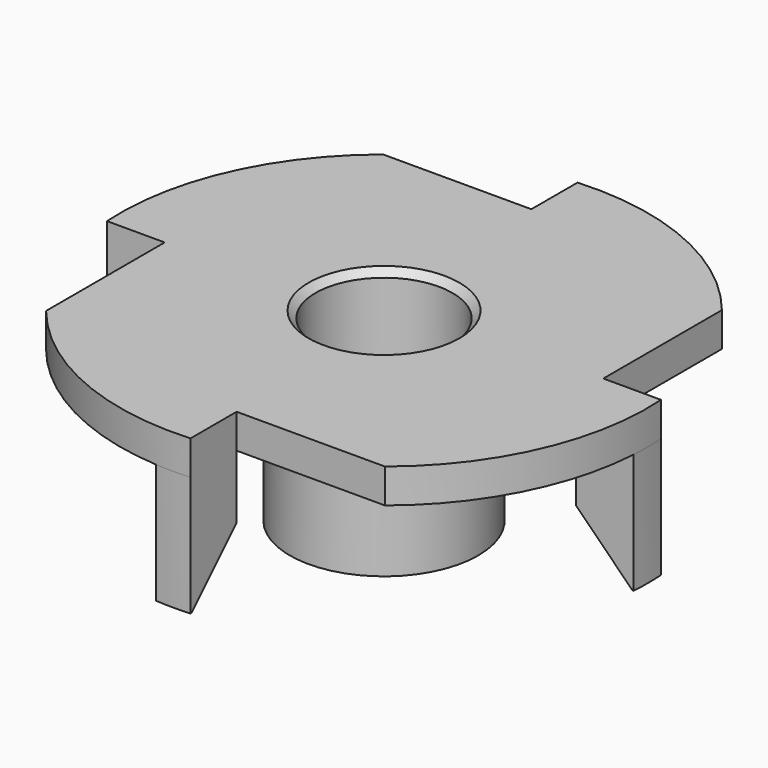
from build123d import *

# Parameters (mm, degrees)
F1_R      = 2.75
F1_R_2    = 2
F2_DEPTH  = 5.4
F4_R      = 7.7
F4_R_2    = 2
F5_DEPTH  = 1
F8_DEPTH  = 213
F11_DEPTH = 3.5
F12_SIZE  = 1.65
F13_SIZE  = 0.2


with BuildPart() as f2:
    # F1 (on offset) → F2 (new body)
    with BuildSketch(Plane.XY.offset(13)):
        Circle(F1_R)
        Circle(F1_R_2, mode=Mode.SUBTRACT)
    extrude(amount=-F2_DEPTH)

    # F4 (on offset) → F5 (join)
    with BuildSketch(Plane.XY.offset(13)):
        Circle(F4_R)
        Circle(F4_R_2, mode=Mode.SUBTRACT)
    extrude(amount=-F5_DEPTH)

    # F7 (on offset) → F8 (cut)
    with BuildSketch(Plane.XY.offset(13)):
        with BuildLine():
            Line((-0.5, 6), (-0.5, 7.683749))
            ThreePointArc((-0.5, 7.683749), (-2.792892, 7.175636), (-4.825971, 6))
            Line((-4.825971, 6), (-0.5, 6))
        make_face()
        with BuildLine():
            Line((-6, -0.5), (-7.683749, -0.5))
            ThreePointArc((-7.683749, -0.5), (-7.175636, -2.792892), (-6, -4.825971))
            Line((-6, -4.825971), (-6, -0.5))
        make_face()
        with BuildLine():
            Line((0.5, -6), (0.5, -7.683749))
            ThreePointArc((0.5, -7.683749), (2.792892, -7.175636), (4.825971, -6))
            Line((4.825971, -6), (0.5, -6))
        make_face()
        with BuildLine():
            ThreePointArc((7.683749, 0.5), (7.175636, 2.792892), (6, 4.825971))
            Line((6, 4.825971), (6, 0.5))
            Line((6, 0.5), (7.683749, 0.5))
        make_face()
    extrude(amount=-F8_DEPTH, mode=Mode.SUBTRACT)

    # F10 (on offset) → F11 (join)
    with BuildSketch(Plane.XY.offset(12)):
        with BuildLine():
            Line((-6, 0.5), (-7.683749, 0.5))
            ThreePointArc((-7.683749, 0.5), (-7.7, 0), (-7.683749, -0.5))
            Line((-7.683749, -0.5), (-6, -0.5))
            Line((-6, -0.5), (-6, 0.5))
        make_face()
        with BuildLine():
            ThreePointArc((0.5, 7.683749), (0, 7.7), (-0.5, 7.683749))
            Line((-0.5, 7.683749), (-0.5, 6))
            Line((-0.5, 6), (0.5, 6))
            Line((0.5, 6), (0.5, 7.683749))
        make_face()
        with BuildLine():
            Line((7.683749, 0.5), (6, 0.5))
            Line((6, 0.5), (6, -0.5))
            Line((6, -0.5), (7.683749, -0.5))
            ThreePointArc((7.683749, -0.5), (7.7, 0), (7.683749, 0.5))
        make_face()
        with BuildLine():
            ThreePointArc((-0.5, -7.683749), (0, -7.7), (0.5, -7.683749))
            Line((0.5, -7.683749), (0.5, -6))
            Line((0.5, -6), (-0.5, -6))
            Line((-0.5, -6), (-0.5, -7.683749))
        make_face()
    extrude(amount=-F11_DEPTH)

    # F12
    f12_edges = [f2.edges().sort_by_distance(p)[0] for p in [
        (-6, 0, 8.5),
        (0, 6, 8.5),
        (6, 0, 8.5),
        (0, -6, 8.5),
    ]]
    chamfer(f12_edges, length=F12_SIZE)

    # F13
    f13_edges = [f2.edges().sort_by_distance(p)[0] for p in [
        (-2, 0, 13),
    ]]
    chamfer(f13_edges, length=F13_SIZE)


solid = f2.part
